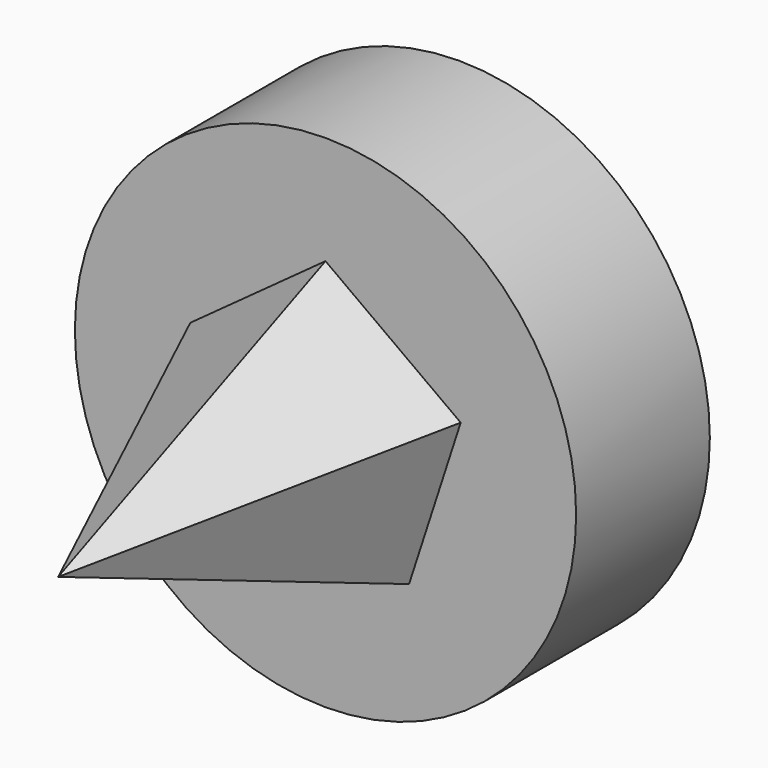
from build123d import *

# Parameters (mm, degrees)
F0_R     = 60
F1_DEPTH = 40


with BuildPart() as f1:
    # F0 (on Front) → F1 (new body)
    with BuildSketch(Plane.XZ):
        Circle(F0_R)
    extrude(amount=F1_DEPTH)

    # F2 (on face) → F5 section 0
    with BuildSketch(Plane.XZ.offset(40), mode=Mode.PRIVATE) as f5_s0:
        Polygon((32.36068, 10.514622), (0, 34.026032), (-32.36068, 10.514622), (-20, -27.527638), (20, -27.527638), align=None)
    loft([f5_s0.sketch, Vertex(0, -120, 0)])


solid = f1.part
